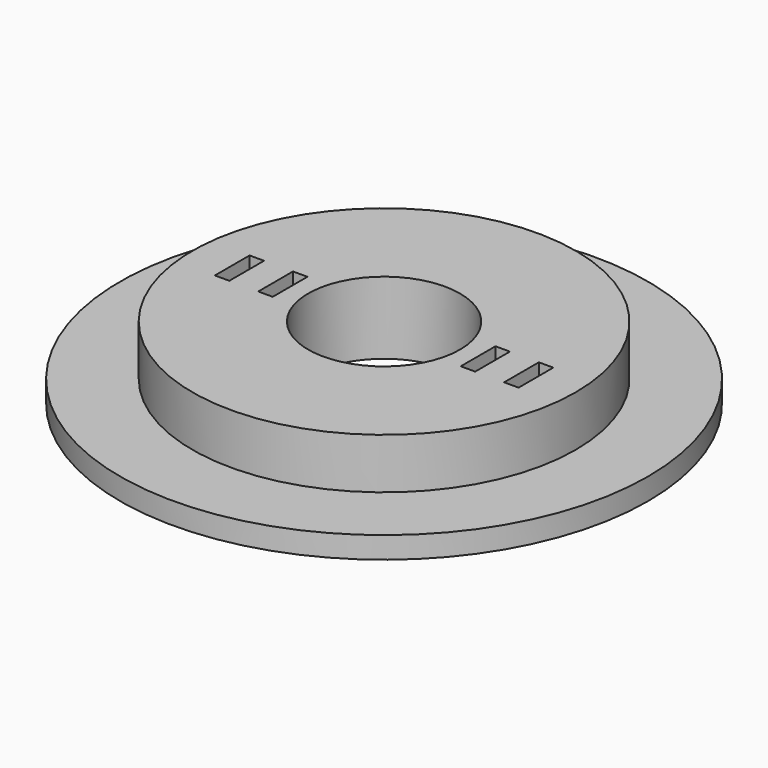
from build123d import *

# Parameters (mm, degrees)
F0_R     = 36.5
F0_R_2   = 26.5
F1_DEPTH = 3
F0_R_3   = 10.5
F2_DEPTH = 10
F3_W     = 2
F3_H     = 6
F4_DEPTH = 25


with BuildPart() as f1:
    # F0 (on Top) → F1 (new body)
    with BuildSketch(Plane.XY):
        Circle(F0_R)
        Circle(F0_R_2, mode=Mode.SUBTRACT)
    extrude(amount=F1_DEPTH)

    # F0 (on Top) → F2 (join)
    with BuildSketch(Plane.XY):
        Circle(F0_R_2)
        Circle(F0_R_3, mode=Mode.SUBTRACT)
    extrude(amount=F2_DEPTH)

    # F3 (on Top) → F4 (cut)
    with BuildSketch(Plane.XY):
        with Locations((-20, 0)):
            Rectangle(F3_W, F3_H)
        with Locations((-14, 0)):
            Rectangle(F3_W, F3_H)
        with Locations((20, 0)):
            Rectangle(F3_W, F3_H)
        with Locations((14, 0)):
            Rectangle(F3_W, F3_H)
    extrude(amount=F4_DEPTH, mode=Mode.SUBTRACT)


solid = f1.part
